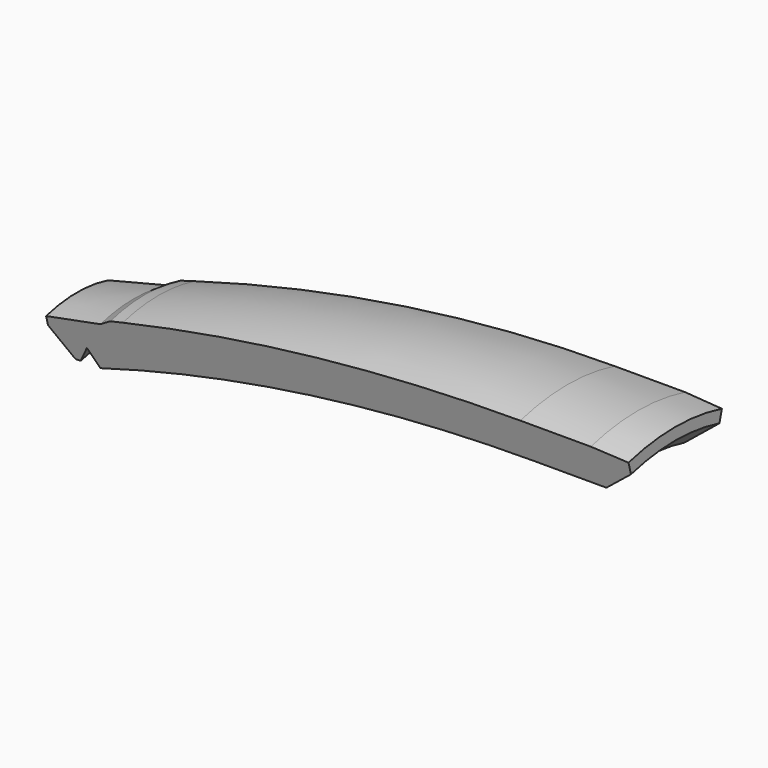
from build123d import *

# Parameters (mm, degrees)
F1_ANGLE_BACK = 15
F1_ANGLE      = 30


with BuildPart() as f1:
    # F0 (on Front) → F1 (revolve)
    with BuildSketch(Plane.XZ, mode=Mode.PRIVATE) as f1_sk:
        with BuildLine():
            Line((-18, 33.124), (-5.2151137212, 33.124))
            Line((-5.2151137212, 33.124), (0, 37.5))
            Line((0, 37.5), (0, 39.6))
            Line((0, 39.6), (-6.5399421904, 40))
            Line((-6.5399421904, 40), (-18.9116653046, 40))
            ThreePointArc((-18.9116653046, 40), (-55.0987630492, 37.6086828346), (-90.6565165902, 30.476319686))
            Line((-90.6565165902, 30.476319686), (-105, 26.6))
            Line((-105, 26.6), (-105, 24.6))
            Line((-105, 24.6), (-101.1401416966, 20))
            Line((-101.1401416966, 20), (-100.2320508076, 20))
            Line((-100.2320508076, 20), (-98.5, 23))
            Line((-98.5, 23), (-96.7679491924, 20))
            ThreePointArc((-96.7679491924, 20), (-57.9268994413, 29.8205398211), (-18, 33.124))
        make_face()
    revolve(f1_sk.sketch.rotate(Axis((-69.0081492066, 0, 0), (-1, 0, 0)), -F1_ANGLE_BACK), axis=Axis((-69.0081492066, 0, 0), (-1, 0, 0)), revolution_arc=F1_ANGLE)

    # F2 (on Front) → F3 (revolve, cut)
    with BuildSketch(Plane.XZ):
        Polygon((-105, 26.6), (-105, 26.25), (-95, 28.5586819113), (-93, 29.84299439), align=None)
    revolve(axis=Axis((-59.7863905132, 0, 0), (-1, 0, 0)), mode=Mode.SUBTRACT)


solid = f1.part
